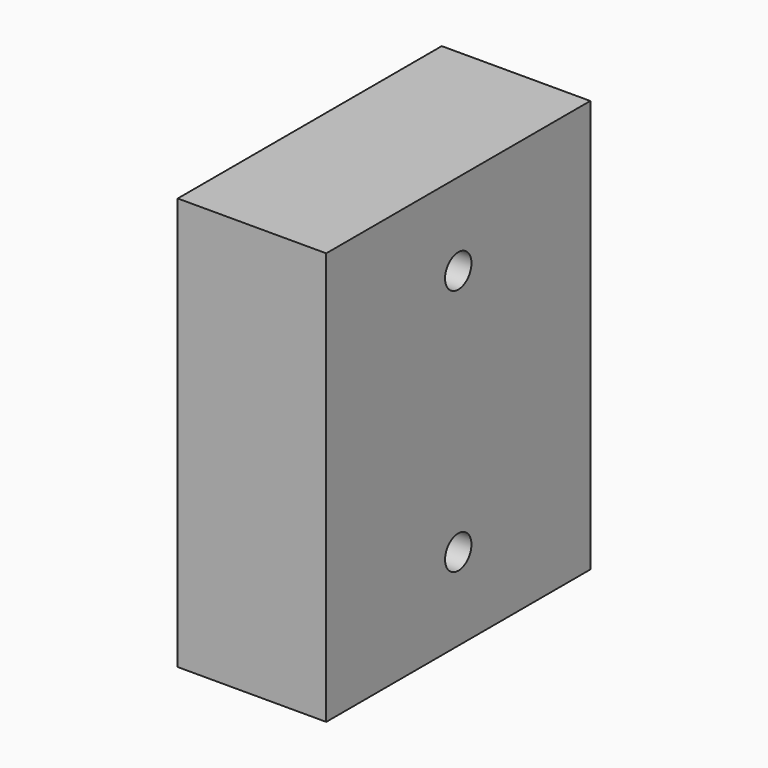
from build123d import *

# Parameters (mm, degrees)
CYLINDER028_R           = 2
CYLINDER028_DEPTH       = 20
CYLINDER028_PITCH_ANGLE = 90
ARRAY026_Z_COUNT        = 2
ARRAY026_Z_PITCH        = 30
BOX016_W                = 18
BOX016_H                = 40
BOX016_DEPTH            = 50


with BuildPart() as array026:
    # Cylinder028 → Cylinder028 (new body)
    with BuildSketch(Plane.XY):
        Circle(CYLINDER028_R)
    extrude(amount=CYLINDER028_DEPTH)


with BuildPart() as array026_1:
    # Cylinder028 pitch: moved
    add(array026.part.rotate(Axis((0, 0, 0), (0, 1, 0)), CYLINDER028_PITCH_ANGLE))


with BuildPart() as array026_2:
    # Cylinder028 placement: moved
    add(array026_1.part.moved(Location((134, 87, -14))))

    # Array026 Z: Array026 ×2


with BuildPart() as array026_3:
    add(array026_2.part)
    with Locations(*[(0, 0, -i * ARRAY026_Z_PITCH) for i in range(1, ARRAY026_Z_COUNT)]):
        add(array026_2.part)


with BuildPart() as case_2_con003:
    # Box016 → Box016 (new body)
    with BuildSketch(Plane(origin=(134, 67, -54), x_dir=(1, 0, 0), z_dir=(0, 0, 1))):
        with Locations((9, 20)):
            Rectangle(BOX016_W, BOX016_H)
    extrude(amount=BOX016_DEPTH)

    # Cut027: cut Array026
    add(array026_3.part, mode=Mode.SUBTRACT)


solid = case_2_con003.part
